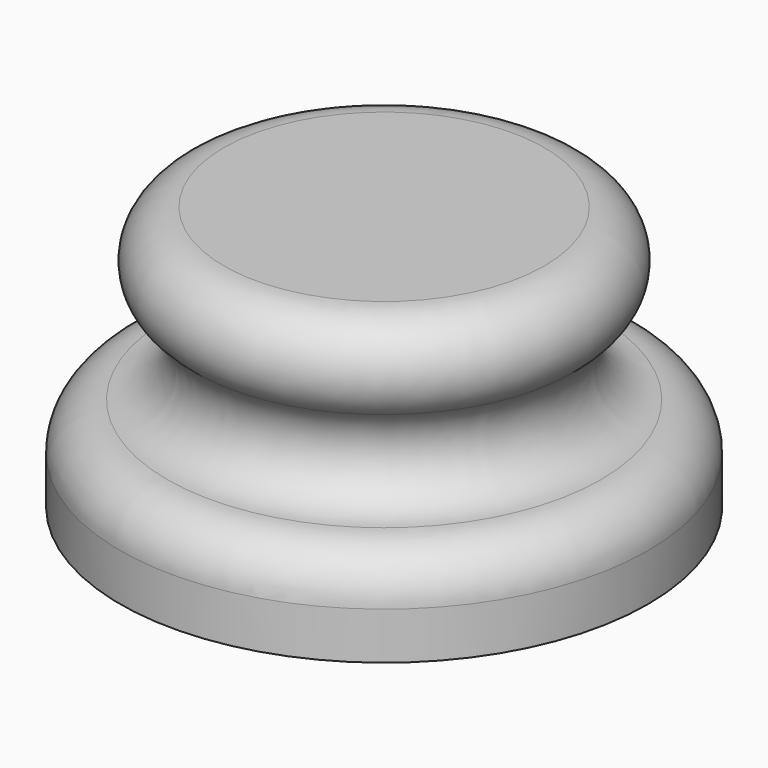
from build123d import *


with BuildPart() as f1:
    # F0 (on Front) → F1 (revolve)
    with BuildSketch(Plane.XZ):
        with BuildLine():
            Line((0, 28), (0, 0))
            Line((0, 0), (28, 0))
            Line((28, 0), (28, 5))
            ThreePointArc((28, 5), (26.535534, 8.535534), (23, 10))
            ThreePointArc((23, 10), (18.256584, 13.418861), (20, 19))
            ThreePointArc((20, 19), (21.743416, 24.581139), (17, 28))
            Line((17, 28), (0, 28))
        make_face()
    revolve(axis=Axis((0, 0, 14), (0, 0, 1)))


solid = f1.part
